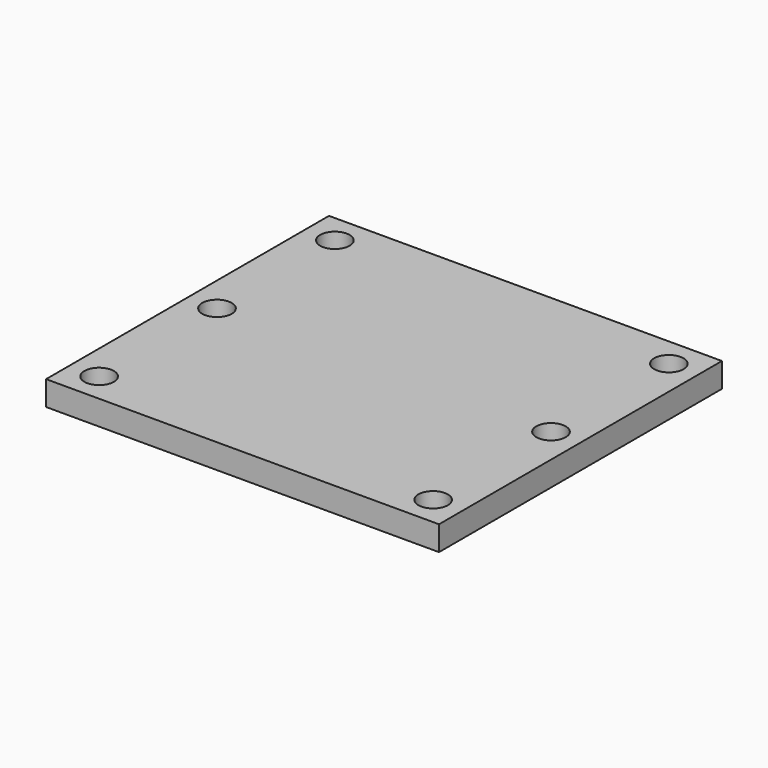
from build123d import *

# Parameters (mm, degrees)
F0_W     = 100
F0_H     = 90
F1_DEPTH = 6.25
F2_R     = 3.75
F3_DEPTH = 25


with BuildPart() as f1:
    # F0 (on Top) → F1 (new body)
    with BuildSketch(Plane.XY):
        Rectangle(F0_W, F0_H)
    extrude(amount=F1_DEPTH)

    # F2 (on face) → F3 (cut)
    with BuildSketch(Plane.XY.offset(6.25)):
        with Locations((-42.5, 37.5)):
            Circle(F2_R)
        with Locations((-42.5, -37.5)):
            Circle(F2_R)
        with Locations((-42.5, 0)):
            Circle(F2_R)
        with Locations((42.5, 37.5)):
            Circle(F2_R)
        with Locations((42.5, 0)):
            Circle(F2_R)
        with Locations((42.5, -37.5)):
            Circle(F2_R)
    extrude(amount=-F3_DEPTH, mode=Mode.SUBTRACT)


solid = f1.part
